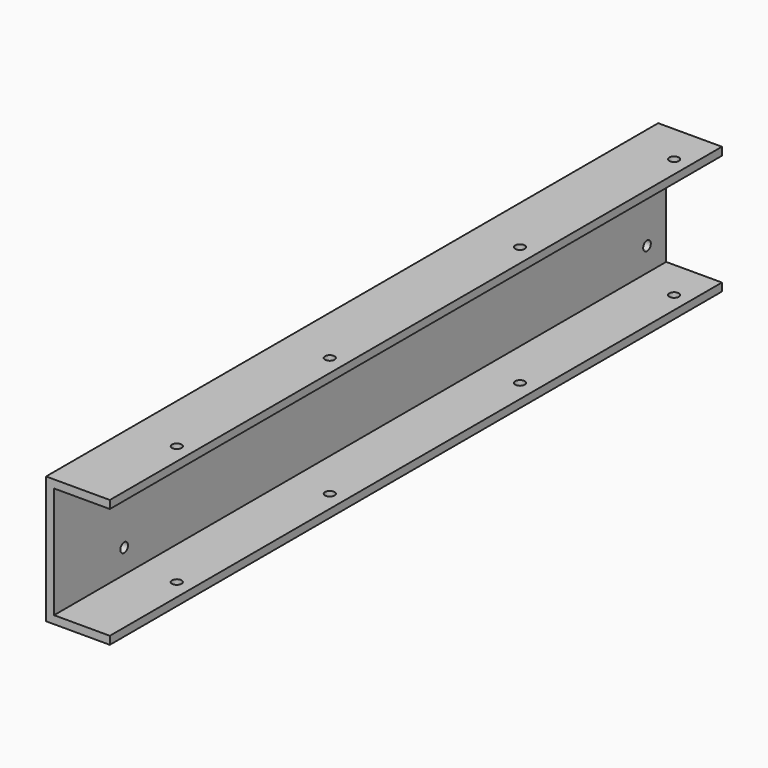
from build123d import *

# Parameters (mm, degrees)
F1_DEPTH = 152.4
F3_D     = 3.81
F5_D     = 3.81


with BuildPart() as f1:
    # F0 (on Front) → F1 (new body, symmetric)
    with BuildSketch(Plane.XZ):
        Polygon((12.7, 25.4), (-12.7, 25.4), (-12.7, -25.4), (12.7, -25.4), (12.7, -22.225), (-9.525, -22.225), (-9.525, 22.225), (12.7, 22.225), align=None)
    extrude(amount=F1_DEPTH, both=True)

    # F3 (through all)
    with Locations(Plane(origin=(0, 0, -25.4), x_dir=(1, 0, 0), z_dir=(0, 0, -1))):
        with Locations((6.35, -136.525), (5.915893, -60.325), (6.35, 34.925), (6.35, 111.125)):
            Hole(F3_D / 2)

    # F5 (through all)
    with Locations(Plane(origin=(-12.7, 0, 0), x_dir=(0, -1, 0), z_dir=(-1, 0, 0))):
        with Locations((117.475, -12.7), (117.475, 12.7), (-142.875, -12.7), (-142.875, 12.7)):
            Hole(F5_D / 2)


solid = f1.part
